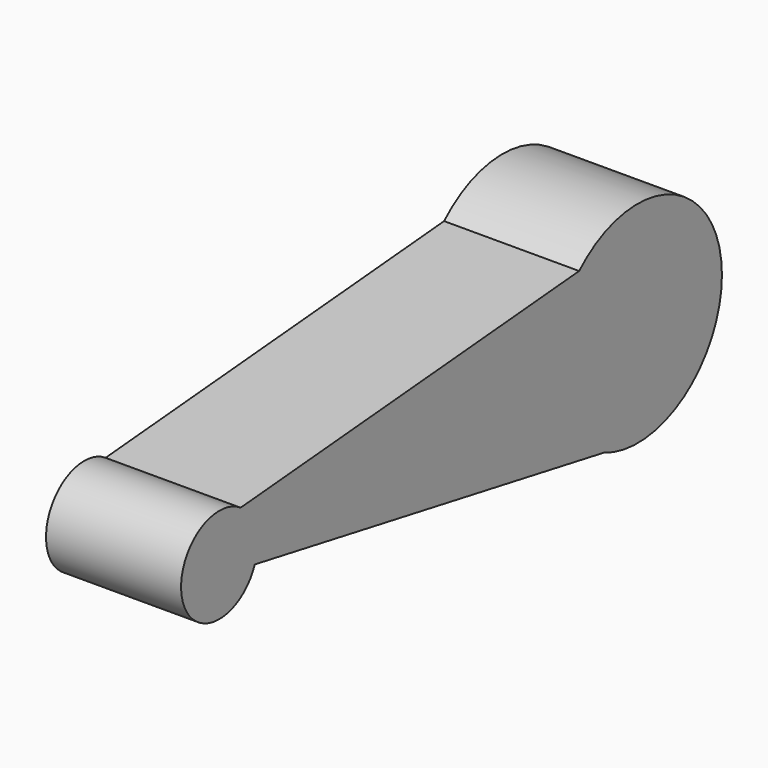
from build123d import *

# Parameters (mm, degrees)
F2_DEPTH = 25.4
F3_DEPTH = 25.4


with BuildPart() as f2:
    # F0 (on Right) → F2 (new body)
    with BuildSketch(Plane.YZ):
        with BuildLine():
            ThreePointArc((-5.555995, -18.155882), (-17.114845, -3.483872), (-11.34728, 14.281546))
            Line((-11.34728, 14.281546), (-90.925781, 7.443868))
            ThreePointArc((-90.925781, 7.443868), (-88.017793, 4.215689), (-86.966366, 0))
            ThreePointArc((-86.966366, 0), (-87.125503, -1.682815), (-87.597275, -3.305968))
            Line((-87.597275, -3.305968), (-5.555995, -18.155882))
        make_face()
        with BuildLine():
            ThreePointArc((-86.966366, 0), (-88.017793, 4.215689), (-90.925781, 7.443868))
            ThreePointArc((-90.925781, 7.443868), (-104.518898, -2.655239), (-87.597275, -3.305968))
            ThreePointArc((-87.597275, -3.305968), (-87.125503, -1.682815), (-86.966366, 0))
        make_face()
        with BuildLine():
            ThreePointArc((-5.555995, -18.155882), (13.243766, -16.591974), (22.220583, 0))
            ThreePointArc((22.220583, 0), (10.158773, 18.239819), (-11.34728, 14.281546))
            ThreePointArc((-11.34728, 14.281546), (-17.114845, -3.483872), (-5.555995, -18.155882))
        make_face()
    extrude(amount=F2_DEPTH)

    # F0 (on Right) → F3 (join)
    with BuildSketch(Plane.YZ):
        with BuildLine():
            ThreePointArc((-5.555995, -18.155882), (13.243766, -16.591974), (22.220583, 0))
            ThreePointArc((22.220583, 0), (10.158773, 18.239819), (-11.34728, 14.281546))
            ThreePointArc((-11.34728, 14.281546), (-17.114845, -3.483872), (-5.555995, -18.155882))
        make_face()
        with BuildLine():
            ThreePointArc((-5.555995, -18.155882), (-17.114845, -3.483872), (-11.34728, 14.281546))
            Line((-11.34728, 14.281546), (-90.925781, 7.443868))
            ThreePointArc((-90.925781, 7.443868), (-88.017793, 4.215689), (-86.966366, 0))
            ThreePointArc((-86.966366, 0), (-87.125503, -1.682815), (-87.597275, -3.305968))
            Line((-87.597275, -3.305968), (-5.555995, -18.155882))
        make_face()
        with BuildLine():
            ThreePointArc((-86.966366, 0), (-88.017793, 4.215689), (-90.925781, 7.443868))
            ThreePointArc((-90.925781, 7.443868), (-104.518898, -2.655239), (-87.597275, -3.305968))
            ThreePointArc((-87.597275, -3.305968), (-87.125503, -1.682815), (-86.966366, 0))
        make_face()
    extrude(amount=F3_DEPTH)


solid = f2.part
